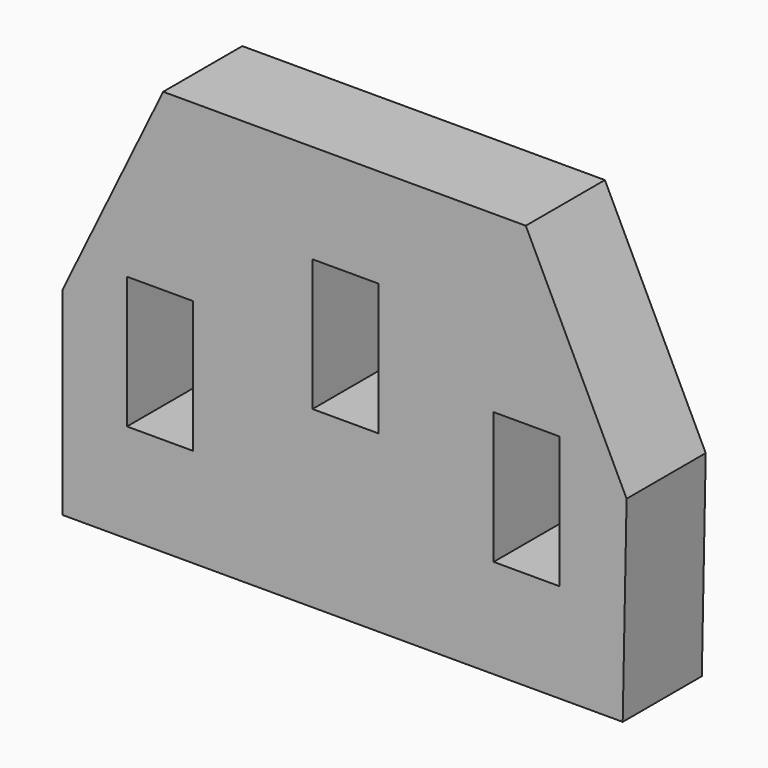
from build123d import *

# Parameters (mm, degrees)
F2_DEPTH = 3
F1_W     = 2
F1_H     = 4
F3_DEPTH = 3


with BuildPart() as f2:
    # F0 (on Front) → F2 (new body)
    with BuildSketch(Plane.XZ):
        Polygon((4.470963, 15.720311), (-6.529037, 15.720311), (-9.589446, 9.424765), (-9.589446, 3.424765), (7.410554, 3.424765), (7.528967, 9.423597), align=None)
    extrude(amount=F2_DEPTH)

    # F1 (on Front) → F3 (cut)
    with BuildSketch(Plane.XZ):
        with Locations((4.495724, 8.424765)):
            Rectangle(F1_W, F1_H)
        with Locations((-0.999158, 10.720311)):
            Rectangle(F1_W, F1_H)
        with Locations((-6.626463, 8.424765)):
            Rectangle(F1_W, F1_H)
    extrude(amount=F3_DEPTH, mode=Mode.SUBTRACT)


solid = f2.part
